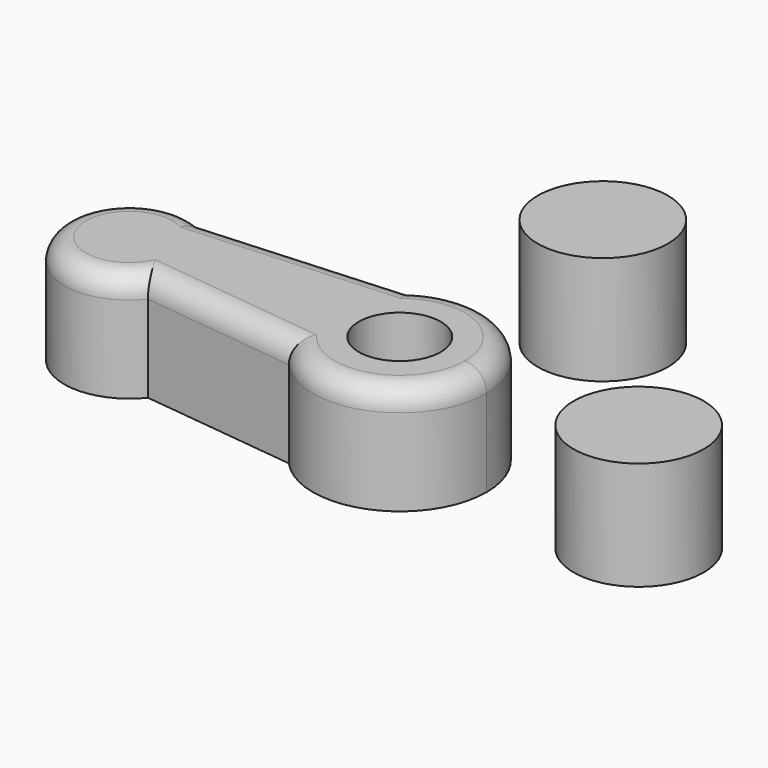
from build123d import *

# Parameters (mm, degrees)
F0_R     = 15
F1_DEPTH = 25
F2_R     = 5
F3_R     = 9.449044
F4_DEPTH = 25


with BuildPart() as f1:
    # F0 (on Top) → F1 (new body)
    with BuildSketch(Plane.XY):
        with BuildLine():
            ThreePointArc((-14.79571, -13.456856), (7.214076, -18.653608), (20, 0))
            ThreePointArc((20, 0), (9.507766, 17.595522), (-10.960239, 16.72941))
            ThreePointArc((-10.960239, 16.72941), (-19.840486, 2.520935), (-14.79571, -13.456856))
        make_face()
        with BuildLine():
            ThreePointArc((-14.79571, -13.456856), (-19.840486, 2.520935), (-10.960239, 16.72941))
            Line((-10.960239, 16.72941), (-56.449797, 13.812218))
            ThreePointArc((-56.449797, 13.812218), (-49.794806, 8.284016), (-47.299809, 0))
            ThreePointArc((-47.299809, 0), (-48.137102, -4.94143), (-50.555506, -9.331203))
            Line((-50.555506, -9.331203), (-14.79571, -13.456856))
        make_face()
        with BuildLine():
            ThreePointArc((-47.299809, 0), (-49.794806, 8.284016), (-56.449797, 13.812218))
            ThreePointArc((-56.449797, 13.812218), (-76.83578, -3.7021), (-50.555506, -9.331203))
            ThreePointArc((-50.555506, -9.331203), (-48.137102, -4.94143), (-47.299809, 0))
        make_face()
        with Locations((0, 58.468169)):
            Circle(F0_R)
        with Locations((55.034475, 0)):
            Circle(F0_R)
    extrude(amount=F1_DEPTH)

    # F2
    f2_edges = [f1.edges().sort_by_distance(p)[0] for p in [
        (-32.675608, -11.394029, 25),
        (-76.83578, -3.7021, 25),
        (7.214076, -18.653608, 25),
        (9.507766, 17.595522, 25),
        (-33.705018, 15.270814, 25),
    ]]
    fillet(f2_edges, radius=F2_R)

    # F3 (on face) → F4 (cut)
    with BuildSketch(Plane.XY.offset(25)):
        Circle(F3_R)
    extrude(amount=-F4_DEPTH, mode=Mode.SUBTRACT)


solid = f1.part
